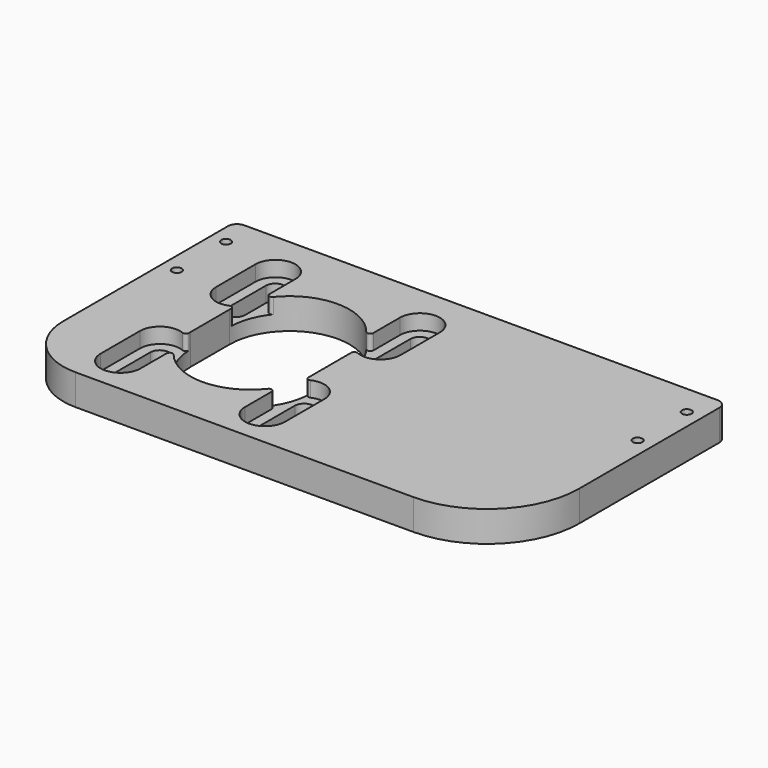
from build123d import *

# Parameters (mm, degrees)
SKETCH_W     = 160
SKETCH_H     = 90
SKETCH_R     = 1.5625
PAD_DEPTH    = 10
POCKET_DEPTH = 5
FILLET_R     = 20
FILLET001_R  = 30
FILLET002_R  = 3
FILLET003_R  = 1
FILLET004_R  = 1
FILLET005_R  = 1


with BuildPart() as part:
    # Sketch → Pad (new body)
    with BuildSketch(Plane.XY):
        with Locations((100, -45)):
            Rectangle(SKETCH_W, SKETCH_H)
        with Locations((175, -10)):
            Circle(SKETCH_R, mode=Mode.SUBTRACT)
        with Locations((175, -30)):
            Circle(SKETCH_R, mode=Mode.SUBTRACT)
        with Locations((25, -10)):
            Circle(SKETCH_R, mode=Mode.SUBTRACT)
        with Locations((25, -30)):
            Circle(SKETCH_R, mode=Mode.SUBTRACT)
        with BuildLine():
            ThreePointArc((95.0113, -14.9887), (92.0113, -11.9887), (89.0113, -14.9887))
            Line((89.0113, -14.9887), (89.0113, -30.9887))
            ThreePointArc((89.0113, -30.9887), (92.0113, -33.9887), (95.0113, -30.9887))
            Line((95.0113, -14.9887), (95.0113, -30.9887))
        make_face(mode=Mode.SUBTRACT)
        with BuildLine():
            ThreePointArc((88, -38.5), (68.5, -19), (49, -38.5))
            Line((49, -38.5), (49, -54.5))
            ThreePointArc((49, -54.5), (68.5, -74), (88, -54.5))
            Line((88, -38.5), (88, -54.5))
        make_face(mode=Mode.SUBTRACT)
        with BuildLine():
            ThreePointArc((95.0113, -62.0113), (92.0113, -59.0113), (89.0113, -62.0113))
            Line((89.0113, -62.0113), (89.0113, -78.0113))
            ThreePointArc((89.0113, -78.0113), (92.0113, -81.0113), (95.0113, -78.0113))
            Line((95.0113, -62.0113), (95.0113, -78.0113))
        make_face(mode=Mode.SUBTRACT)
        with BuildLine():
            ThreePointArc((47.9887, -62.0113), (44.9887, -59.0113), (41.9887, -62.0113))
            Line((41.9887, -62.0113), (41.9887, -78.0113))
            ThreePointArc((41.9887, -78.0113), (44.9887, -81.0113), (47.9887, -78.0113))
            Line((47.9887, -62.0113), (47.9887, -78.0113))
        make_face(mode=Mode.SUBTRACT)
        with BuildLine():
            ThreePointArc((47.9887, -14.9887), (44.9887, -11.9887), (41.9887, -14.9887))
            Line((41.9887, -14.9887), (41.9887, -30.9887))
            ThreePointArc((41.9887, -30.9887), (44.9887, -33.9887), (47.9887, -30.9887))
            Line((47.9887, -14.9887), (47.9887, -30.9887))
        make_face(mode=Mode.SUBTRACT)
    extrude(amount=PAD_DEPTH)

    # Sketch001 (on Face30 of Pad) → Pocket (cut)
    with BuildSketch(Plane.XY.offset(10)):
        with BuildLine():
            ThreePointArc((98.609297, -14.98945), (92.109297, -8.48945), (85.609297, -14.98945))
            Line((85.609297, -14.98945), (85.609297, -30.98945))
            ThreePointArc((85.609297, -30.98945), (92.109297, -37.48945), (98.609297, -30.98945))
            Line((98.609297, -14.98945), (98.609297, -30.98945))
        make_face()
        with BuildLine():
            ThreePointArc((51.586696, -14.98945), (45.086696, -8.48945), (38.586696, -14.98945))
            Line((38.586696, -14.98945), (38.586696, -30.98945))
            ThreePointArc((38.586696, -30.98945), (45.086696, -37.48945), (51.586696, -30.98945))
            Line((51.586696, -14.98945), (51.586696, -30.98945))
        make_face()
        with BuildLine():
            ThreePointArc((98.609297, -62.012051), (92.109297, -55.512051), (85.609297, -62.012051))
            Line((85.609297, -62.012051), (85.609297, -78.012051))
            ThreePointArc((85.609297, -78.012051), (92.109297, -84.512051), (98.609297, -78.012051))
            Line((98.609297, -62.012051), (98.609297, -78.012051))
        make_face()
        with BuildLine():
            ThreePointArc((51.586696, -62.012051), (45.086696, -55.512051), (38.586696, -62.012051))
            Line((38.586696, -62.012051), (38.586696, -78.012051))
            ThreePointArc((38.586696, -78.012051), (45.086696, -84.512051), (51.586696, -78.012051))
            Line((51.586696, -62.012051), (51.586696, -78.012051))
        make_face()
    extrude(amount=-POCKET_DEPTH, mode=Mode.SUBTRACT)

    # Fillet
    fillet_edges = [part.edges().sort_by_distance(p)[0] for p in [
        (20, -90, 5),
    ]]
    fillet(fillet_edges, radius=FILLET_R)

    # Fillet001
    fillet001_edges = [part.edges().sort_by_distance(p)[0] for p in [
        (180, -90, 5),
    ]]
    fillet(fillet001_edges, radius=FILLET001_R)

    # Fillet002
    fillet002_edges = [part.edges().sort_by_distance(p)[0] for p in [
        (20, 0, 5),
        (180, 0, 5),
    ]]
    fillet(fillet002_edges, radius=FILLET002_R)

    # Fillet003
    fillet003_edges = [part.edges().sort_by_distance(p)[0] for p in [
        (87.822355, -57.126141, 7.5),
    ]]
    fillet(fillet003_edges, radius=FILLET003_R)

    # Fillet004
    fillet004_edges = [part.edges().sort_by_distance(p)[0] for p in [
        (85.609297, -29.144684, 7.5),
        (51.586696, -28.794838, 7.5),
        (49.153433, -56.941385, 7.5),
    ]]
    fillet(fillet004_edges, radius=FILLET004_R)

    # Fillet005
    fillet005_edges = [part.edges().sort_by_distance(p)[0] for p in [
        (85.609297, -63.855316, 7.5),
        (51.586696, -64.205162, 7.5),
        (49.153223, -36.060285, 7.5),
        (87.822586, -35.875564, 7.5),
    ]]
    fillet(fillet005_edges, radius=FILLET005_R)


solid = part.part
